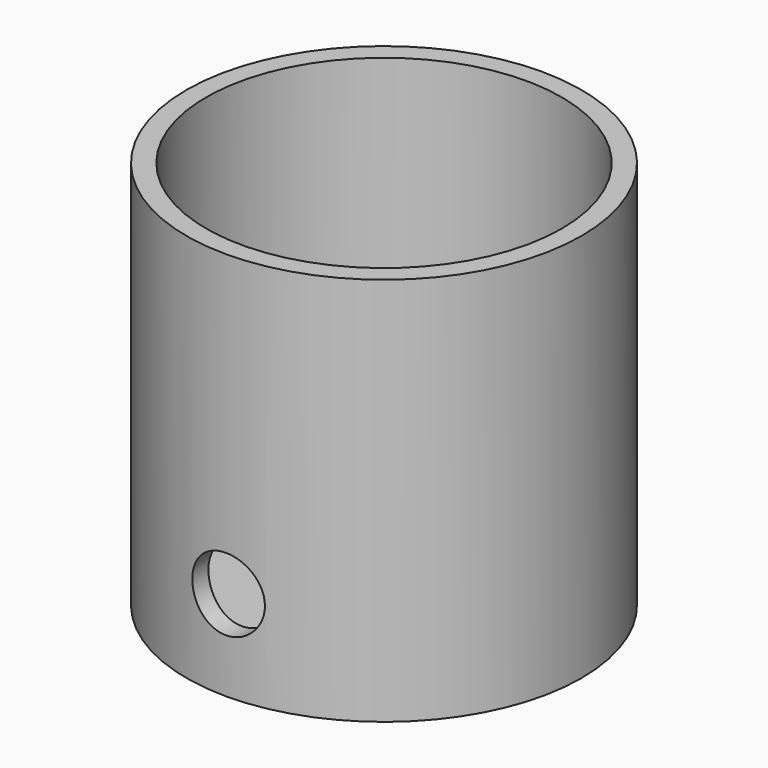
from build123d import *

# Parameters (mm, degrees)
F0_R     = 10
F1_DEPTH = 19.7
F2_T     = -1
F3_R     = 1.837004
F4_DEPTH = 11.6


with BuildPart() as f1:
    # F0 (on Top) → F1 (new body)
    with BuildSketch(Plane.XY):
        Circle(F0_R)
    extrude(amount=F1_DEPTH)

    # F2
    f2_openings = [f1.faces().sort_by_distance(p)[0] for p in [
        (0, 0, 19.7),
    ]]
    offset(amount=F2_T, openings=f2_openings)

    # F3 (on Front) → F4 (cut, symmetric)
    with BuildSketch(Plane.XZ):
        with Locations((0, 4.556882)):
            Circle(F3_R)
    extrude(amount=F4_DEPTH, both=True, mode=Mode.SUBTRACT)


solid = f1.part
